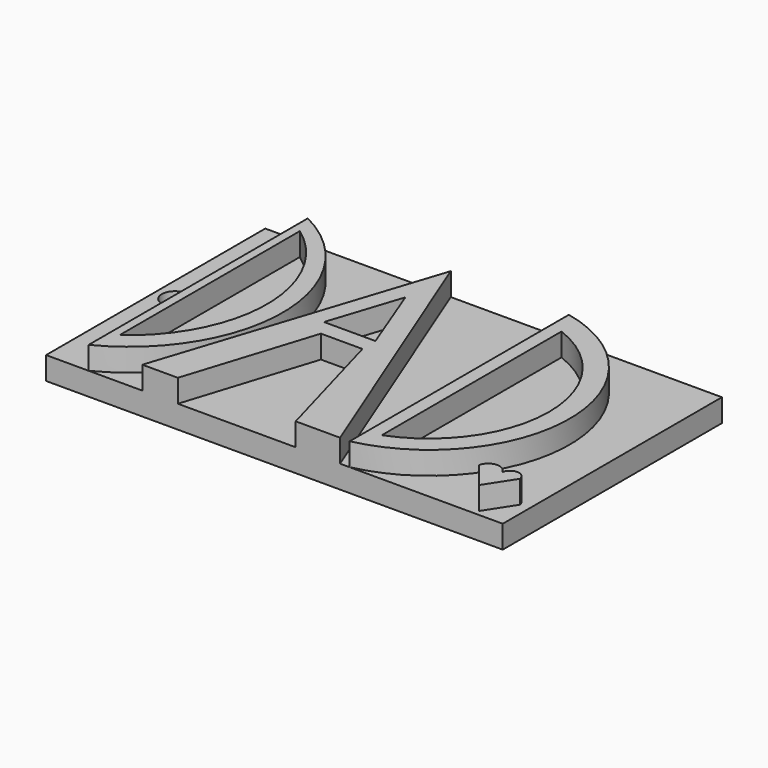
from build123d import *

# Parameters (mm, degrees)
F0_W      = 127
F0_H      = 76.2
F1_DEPTH  = 6.35
F3_DEPTH  = 6.35
F5_DEPTH  = 6.35
F7_DEPTH  = 6.35
F9_DEPTH  = 6.35
F11_DEPTH = 6.35
F13_DEPTH = 6.35


with BuildPart() as f1:
    # F0 (on Top) → F1 (new body)
    with BuildSketch(Plane.XY):
        with Locations((63.5, -38.1)):
            Rectangle(F0_W, F0_H)
    extrude(amount=F1_DEPTH)

    # F2 (on face) → F3 (cut, through all)
    with BuildSketch(Plane.XY.offset(6.35)):
        with BuildLine():
            ThreePointArc((8.986218, -38.1), (5.353199, -34.466981), (1.72018, -38.1))
            ThreePointArc((1.72018, -38.1), (5.353199, -41.733019), (8.986218, -38.1))
        make_face()
    extrude(amount=-F3_DEPTH, mode=Mode.SUBTRACT)

    # F4 (on face) → F5 (join)
    with BuildSketch(Plane.XY.offset(6.35)):
        with BuildLine():
            ThreePointArc((11.837447, -76.2), (35.286069, -38.1), (11.837447, 0))
            Line((11.837447, 0), (11.837447, -76.2))
        make_face()
    extrude(amount=F5_DEPTH)

    # F6 (on face) → F7 (cut)
    with BuildSketch(Plane.XY.offset(12.7)):
        with BuildLine():
            ThreePointArc((14.233802, -68.477303), (30.151871, -37.113268), (14.233802, -5.749233))
            Line((14.233802, -5.749233), (14.233802, -68.477303))
        make_face()
    extrude(amount=-F7_DEPTH, mode=Mode.SUBTRACT)

    # F8 (on face) → F9 (join)
    with BuildSketch(Plane.XY.offset(6.35)):
        Polygon((81.754573, -76.2), (51.588718, 0), (26.779415, -76.2), (36.64675, -76.2), (47.923706, -40.566836), (59.482586, -40.566836), (69.418724, -76.2), align=None)
        Polygon((45.034298, -35.888964), (51.588718, -15.757531), (59.341624, -35.888964), align=None, mode=Mode.SUBTRACT)
    extrude(amount=F9_DEPTH)

    # F10 (on face) → F11 (join)
    with BuildSketch(Plane.XY.offset(6.35)):
        with BuildLine():
            Line((84.432848, 0), (84.432848, -76.2))
            ThreePointArc((84.432848, -76.2), (115.125997, -38.1), (84.432848, 0))
        make_face()
        with BuildLine():
            Line((88.097863, -69.604993), (88.097863, -7.158854))
            ThreePointArc((88.097863, -7.158854), (109.621547, -38.381923), (88.097863, -69.604993))
        make_face(mode=Mode.SUBTRACT)
    extrude(amount=F11_DEPTH)

    # F12 (on face) → F13 (join)
    with BuildSketch(Plane.XY.offset(6.35)):
        with BuildLine():
            ThreePointArc((119.378194, -66.891998), (116.194297, -64.889157), (113.354176, -67.355387))
            Line((113.354176, -67.355387), (119.223736, -74.769571))
            Line((119.223736, -74.769571), (124.320991, -66.891998))
            ThreePointArc((124.320991, -66.891998), (121.849593, -64.724744), (119.378194, -66.891998))
        make_face()
    extrude(amount=F13_DEPTH)


solid = f1.part
